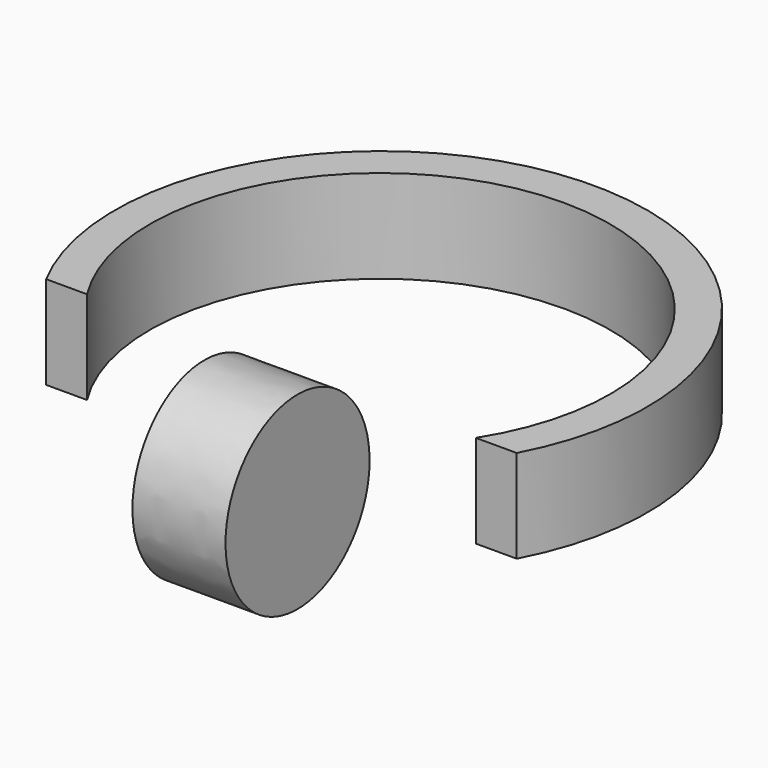
from build123d import *

# Parameters (mm, degrees)
F1_DEPTH = 5
F3_DEPTH = 5


with BuildPart() as f1:
    # F0 (on Top) → F1 (new body)
    with BuildSketch(Plane.XY):
        with BuildLine():
            ThreePointArc((-10.440866, 0), (0, 18.984542), (10.440866, 0))
            Line((10.440866, 0), (12.63894, 0))
            ThreePointArc((12.63894, 0), (-1e-06, 20.992057), (-12.638942, 0))
            Line((-12.638942, 0), (-10.440866, 0))
        make_face()
    extrude(amount=F1_DEPTH)


with BuildPart() as f3:
    # F2 (on Right) → F3 (new body)
    with BuildSketch(Plane.YZ):
        with BuildLine():
            add(Edge.make_bspline(
                [(-0.329712, 2.307981), (-0.329712, 11.100904), (-7.583366, 6.704442), (-14.83702, 2.307981), (-7.583366, -2.088481), (-0.329712, -6.484942), (-0.329712, 2.307981)],
                knots=[4.712389, 4.712389, 4.712389, 6.806784, 6.806784, 8.901179, 8.901179, 10.995574, 10.995574, 10.995574], degree=2, weights=[1, 0.5, 1, 0.5, 1, 0.5, 1]))
        make_face()
    extrude(amount=F3_DEPTH)


solid = Compound([f1.part, f3.part])
